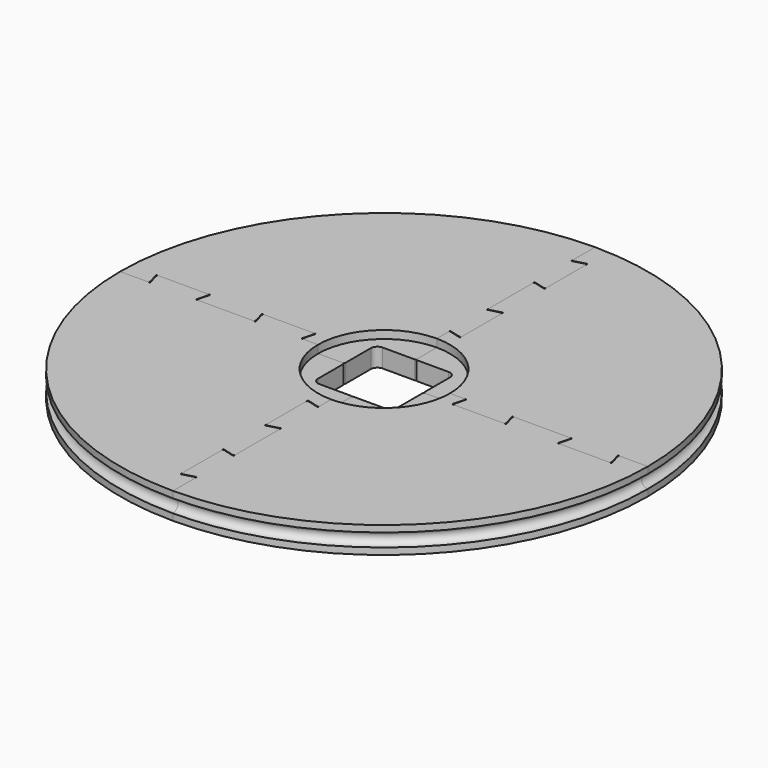
from build123d import *

# Parameters (mm, degrees)
F1_DEPTH = 10
F2_R     = 5
F5_R     = 1
F6_R     = 5
F8_DEPTH = 6
F9_COUNT = 4


with BuildPart() as f1:
    # F0 (on Top) → F1 (new body, symmetric)
    with BuildSketch(Plane.XY):
        with BuildLine():
            Line((177.320508, 0), (200, 0))
            ThreePointArc((200, 0), (141.421356, 141.421356), (0, 200))
            Line((0, 200), (0, 177.820508))
            Line((0, 177.820508), (10, 180.5))
            Line((10, 180.5), (10, 139.5))
            Line((10, 139.5), (0, 142.179492))
            Line((0, 142.179492), (0, 97.820508))
            Line((0, 97.820508), (10, 100.5))
            Line((10, 100.5), (10, 59.5))
            Line((10, 59.5), (0, 62.179492))
            Line((0, 62.179492), (0, 30))
            Line((0, 30), (30, 30))
            Line((30, 30), (30, 0))
            Line((30, 0), (62.679492, 0))
            Line((62.679492, 0), (60, -10))
            Line((60, -10), (100, -10))
            Line((100, -10), (97.320508, 0))
            Line((97.320508, 0), (142.679492, 0))
            Line((142.679492, 0), (140, -10))
            Line((140, -10), (180, -10))
            Line((180, -10), (177.320508, 0))
        make_face()
    extrude(amount=F1_DEPTH, both=True)

    # F2 (on Front) → F4 (revolve, cut)
    with BuildSketch(Plane.XZ):
        with Locations((200, 0)):
            Circle(F2_R)
    revolve(axis=Axis((0, 0, 13.886321), (0, 0, 1)), mode=Mode.SUBTRACT)

    # F5
    f5_edges = [f1.edges().sort_by_distance(p)[0] for p in [
        (60, -10, 0),
        (100, -10, 0),
        (140, -10, 0),
        (180, -10, 0),
        (0, 177.820508, 0),
        (0, 97.820508, 0),
        (0, 142.179492, 0),
        (0, 62.179492, 0),
        (0, 30, 0),
        (30, 0, 0),
    ]]
    fillet(f5_edges, radius=F5_R)

    # F6
    f6_edges = [f1.edges().sort_by_distance(p)[0] for p in [
        (30, 30, 0),
    ]]
    fillet(f6_edges, radius=F6_R)

    # F7 (on face) → F8 (cut)
    with BuildSketch(Plane.XY.offset(10)):
        with BuildLine():
            Line((31, 0), (50, 0))
            ThreePointArc((50, 0), (35.355339, 35.355339), (0, 50))
            Line((0, 50), (0, 31))
            ThreePointArc((0, 31), (0.292893, 30.292893), (1, 30))
            Line((1, 30), (25, 30))
            ThreePointArc((25, 30), (28.535534, 28.535534), (30, 25))
            Line((30, 25), (30, 1))
            ThreePointArc((30, 1), (30.292893, 0.292893), (31, 0))
        make_face()
    extrude(amount=-F8_DEPTH, mode=Mode.SUBTRACT)


with BuildPart() as f9_1:
    # F9: instance of F1
    add(f1.part.rotate(Axis((0, 0, 13.886321), (0, 0, 1)), 1 * 360 / F9_COUNT))


with BuildPart() as f9_2:
    # F9: instance of F1
    add(f1.part.rotate(Axis((0, 0, 13.886321), (0, 0, 1)), 2 * 360 / F9_COUNT))


with BuildPart() as f9_3:
    # F9: instance of F1
    add(f1.part.rotate(Axis((0, 0, 13.886321), (0, 0, 1)), 3 * 360 / F9_COUNT))


solid = Compound([f1.part, f9_1.part, f9_2.part, f9_3.part])
